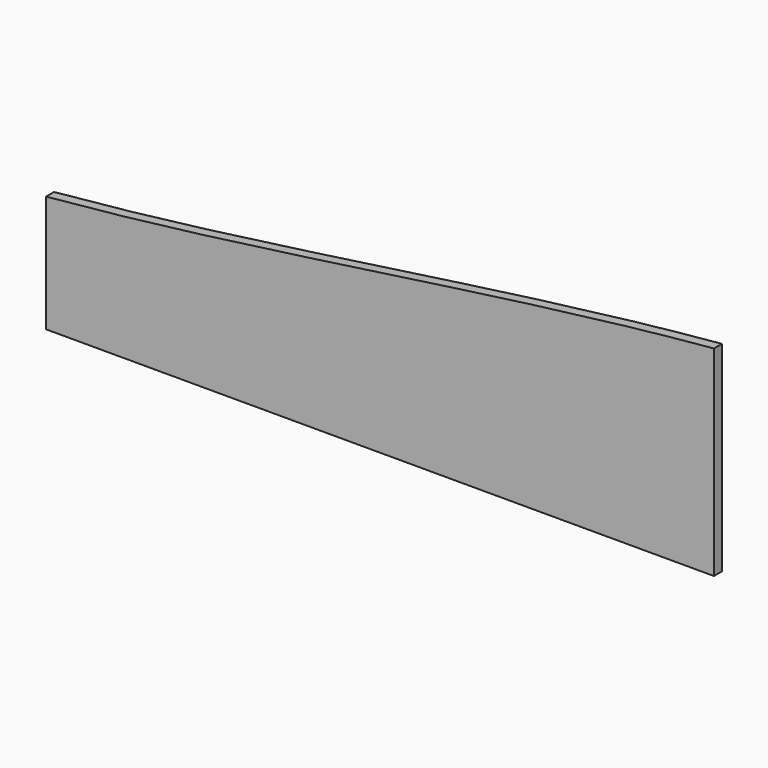
from build123d import *

# Parameters (mm, degrees)
F1_DEPTH = 3


with BuildPart() as f1:
    # F0 (on Front) → F1 (new body)
    with BuildSketch(Plane.XZ):
        with BuildLine():
            Line((-100, -30), (100, -30))
            Line((100, -30), (100, 30))
            add(Edge.make_bspline(
                [(-100, 5), (-33.333333, 10.919868), (33.333333, 24.080132), (100, 30)],
                knots=[0, 0, 0, 0, 201.556444, 201.556444, 201.556444, 201.556444], degree=3))
            Line((-100, 5), (-100, -30))
        make_face()
    extrude(amount=F1_DEPTH)


solid = f1.part
